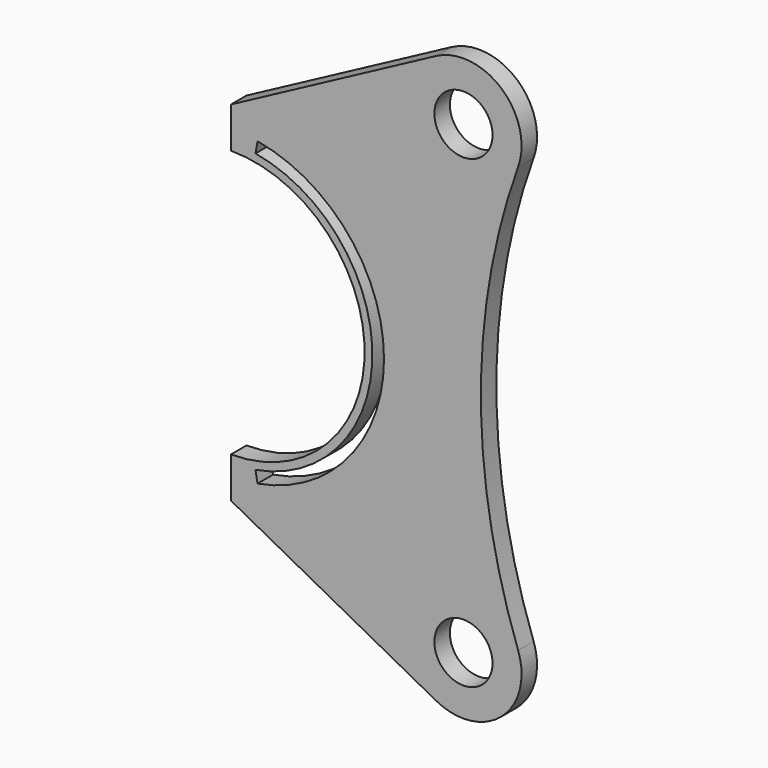
from build123d import *

# Parameters (mm, degrees)
F0_R     = 7.5
F1_DEPTH = 5


with BuildPart() as f1:
    # F0 (on Front) → F1 (new body)
    with BuildSketch(Plane.XZ):
        with BuildLine():
            ThreePointArc((-700, 34.5), (-665.5, 0), (-700, -34.5))
            Line((-700, -34.5), (-700, -45))
            Line((-700, -45), (-647.058824, -73.235294))
            ThreePointArc((-647.058824, -73.235294), (-630.180866, -71.339516), (-625.891449, -54.906004))
            ThreePointArc((-625.891449, -54.906004), (-635.5, 0), (-625.891449, 54.906004))
            ThreePointArc((-625.891449, 54.906004), (-630.180866, 71.339516), (-647.058824, 73.235294))
            Line((-647.058824, 73.235294), (-700, 45))
            Line((-700, 45), (-700, 34.5))
        make_face()
        with Locations((-640, -60)):
            Circle(F0_R, mode=Mode.SUBTRACT)
        with BuildLine():
            Line((-693.140897, -38.899906), (-693.661842, -35.945483))
            ThreePointArc((-693.661842, -35.945483), (-663.5, 0), (-693.661842, 35.945483))
            Line((-693.661842, 35.945483), (-693.140897, 38.899906))
            ThreePointArc((-693.140897, 38.899906), (-660.5, 0), (-693.140897, -38.899906))
        make_face(mode=Mode.SUBTRACT)
        with Locations((-640, 60)):
            Circle(F0_R, mode=Mode.SUBTRACT)
    extrude(amount=-F1_DEPTH)


solid = f1.part
